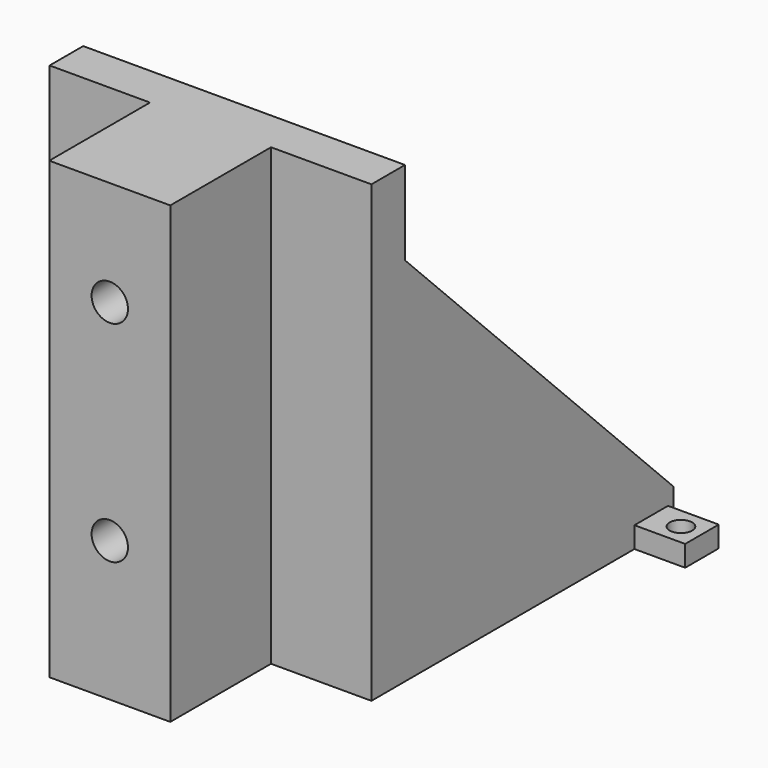
from build123d import *

# Parameters (mm, degrees)
SKETCH_W          = 46
SKETCH_H          = 48
SKETCH_R          = 1.6
SKETCH_R_2        = 6.1
PAD_DEPTH         = 5
SKETCH001_W       = 46
SKETCH001_H       = 6
PAD001_DEPTH      = 60
PAD001_DEPTH_BACK = 5
SKETCH002_W       = 17.3
SKETCH002_H       = 65
PAD002_DEPTH      = 18
POCKET_DEPTH      = 8
SKETCH004_R       = 2.6
POCKET001_DEPTH   = 72.001
PAD003_DEPTH      = 3
PAD004_DEPTH      = 3
SKETCH007_W       = 7.25
SKETCH007_H       = 6
SKETCH007_R       = 1.6
PAD005_DEPTH      = 3


with BuildPart() as part:
    # Sketch → Pad (new body)
    with BuildSketch(Plane.XY):
        with Locations((0, -2)):
            Rectangle(SKETCH_W, SKETCH_H)
        with Locations((-7.75, 13.423394)):
            Circle(SKETCH_R, mode=Mode.SUBTRACT)
        with Locations((7.75, 13.423394)):
            Circle(SKETCH_R, mode=Mode.SUBTRACT)
        with Locations((-15.5, 0)):
            Circle(SKETCH_R, mode=Mode.SUBTRACT)
        with Locations((-7.75, -13.423394)):
            Circle(SKETCH_R, mode=Mode.SUBTRACT)
        with Locations((7.75, -13.423394)):
            Circle(SKETCH_R, mode=Mode.SUBTRACT)
        with Locations((15.5, 0)):
            Circle(SKETCH_R, mode=Mode.SUBTRACT)
        with Locations((0, -7)):
            Circle(SKETCH_R_2, mode=Mode.SUBTRACT)
    extrude(amount=PAD_DEPTH)

    # Sketch001 → Pad001 (new body, two sides)
    with BuildSketch(Plane.XY.offset(5)) as pad001_sk:
        with Locations((0, -29)):
            Rectangle(SKETCH001_W, SKETCH001_H)
    extrude(amount=PAD001_DEPTH)
    extrude(pad001_sk.sketch, amount=-PAD001_DEPTH_BACK)

    # Sketch002 → Pad002 (new body)
    with BuildSketch(Plane.XZ.offset(32)):
        with Locations((0, 32.5)):
            Rectangle(SKETCH002_W, SKETCH002_H)
    extrude(amount=PAD002_DEPTH)

    # Sketch003 → Pocket (cut)
    with BuildSketch(Plane(origin=(0, -26, 0), x_dir=(-1, 0, 0), z_dir=(0, 1, 0))):
        Polygon((4.5, 50), (2.25, 53.897114), (-2.25, 53.897114), (-4.5, 50), (-2.25, 46.102886), (2.25, 46.102886), align=None)
        Polygon((4.5, 20), (2.25, 23.897114), (-2.25, 23.897114), (-4.5, 20), (-2.25, 16.102886), (2.25, 16.102886), align=None)
    extrude(amount=-POCKET_DEPTH, mode=Mode.SUBTRACT)

    # Sketch004 → Pocket001 (cut, through all)
    with BuildSketch(Plane.XZ.offset(50)):
        with Locations((0, 50)):
            Circle(SKETCH004_R)
        with Locations((0, 20)):
            Circle(SKETCH004_R)
    extrude(amount=-POCKET001_DEPTH, mode=Mode.SUBTRACT)

    # Sketch005 → Pad003 (new body)
    with BuildSketch(Plane(origin=(-23, 0, 0), x_dir=(0, -1, 0), z_dir=(-1, 0, 0))):
        Polygon((-22, 5), (26, 5), (26, 53), align=None)
    extrude(amount=-PAD003_DEPTH)

    # Sketch006 → Pad004 (new body)
    with BuildSketch(Plane.YZ.offset(23)):
        Polygon((22, 5), (-26, 5), (-26, 53), align=None)
    extrude(amount=-PAD004_DEPTH)

    # Sketch007 → Pad005 (new body)
    with BuildSketch(Plane(origin=(0, 0, 0), x_dir=(1, 0, 0), z_dir=(0, 0, -1))):
        with Locations((-26.625, 18)):
            Rectangle(SKETCH007_W, SKETCH007_H)
        with Locations((-27.25, 18)):
            Circle(SKETCH007_R, mode=Mode.SUBTRACT)
        with Locations((26.625, -18)):
            Rectangle(SKETCH007_W, SKETCH007_H)
        with Locations((27.25, -18)):
            Circle(SKETCH007_R, mode=Mode.SUBTRACT)
    extrude(amount=-PAD005_DEPTH)


solid = part.part
